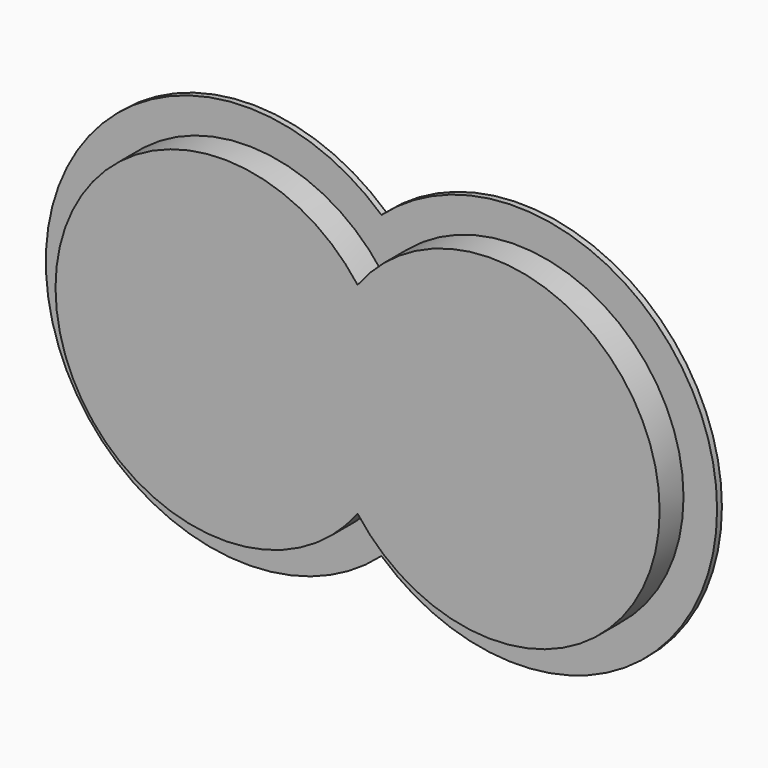
from build123d import *

# Parameters (mm, degrees)
F1_DEPTH = 0.5715
F2_DEPTH = 0.5715
F4_DEPTH = 5.6444444445


with BuildPart() as f1:
    # F0 (on Front) → F1 (new body)
    with BuildSketch(Plane.XZ):
        with BuildLine():
            ThreePointArc((12.7, 0), (9.3803824016, 15.5542598667), (0, 28.3980633142))
            Line((0, 28.3980633142), (0, -28.3980633142))
            ThreePointArc((0, -28.3980633142), (9.3803824016, -15.5542598667), (12.7, 0))
        make_face()
        with BuildLine():
            Line((0, -28.3980633142), (0, 28.3980633142))
            ThreePointArc((0, 28.3980633142), (-12.7, 0), (0, -28.3980633142))
        make_face()
        with BuildLine():
            ThreePointArc((63.5, 0), (40.9542598667, 34.7803824016), (0, 28.3980633142))
            ThreePointArc((0, 28.3980633142), (9.3803824016, 15.5542598667), (12.7, 0))
            ThreePointArc((12.7, 0), (9.3803824016, -15.5542598667), (0, -28.3980633142))
            ThreePointArc((0, -28.3980633142), (40.9542598667, -34.7803824016), (63.5, 0))
        make_face()
        with BuildLine():
            ThreePointArc((0, -28.3980633142), (-12.7, 0), (0, 28.3980633142))
            ThreePointArc((0, 28.3980633142), (-63.5, 0), (0, -28.3980633142))
        make_face()
    extrude(amount=F1_DEPTH)

    # F2 (add): a face of the model
    f2_faces = [f1.faces().sort_by_distance(p)[0] for p in [
        (0, 0, 0),
    ]]
    extrude(f2_faces, amount=F2_DEPTH)

    # F3 (on face) → F4 (join)
    with BuildSketch(Plane.XZ.offset(0.5715)):
        with BuildLine():
            ThreePointArc((0, -19.05), (4.7206947131, -10.040231571), (6.35, 0))
            ThreePointArc((6.35, 0), (4.7206947131, 10.040231571), (0, 19.05))
            ThreePointArc((0, 19.05), (-6.35, 0), (0, -19.05))
        make_face()
        with BuildLine():
            ThreePointArc((0, 19.05), (4.7206947131, 10.040231571), (6.35, 0))
            ThreePointArc((6.35, 0), (4.7206947131, -10.040231571), (0, -19.05))
            ThreePointArc((0, -19.05), (35.440231571, -30.1206947131), (57.15, 0))
            ThreePointArc((57.15, 0), (35.440231571, 30.1206947131), (0, 19.05))
        make_face()
        with BuildLine():
            ThreePointArc((0, -19.05), (-6.35, 0), (0, 19.05))
            ThreePointArc((0, 19.05), (-57.15, 0), (0, -19.05))
        make_face()
    extrude(amount=F4_DEPTH)


solid = f1.part
